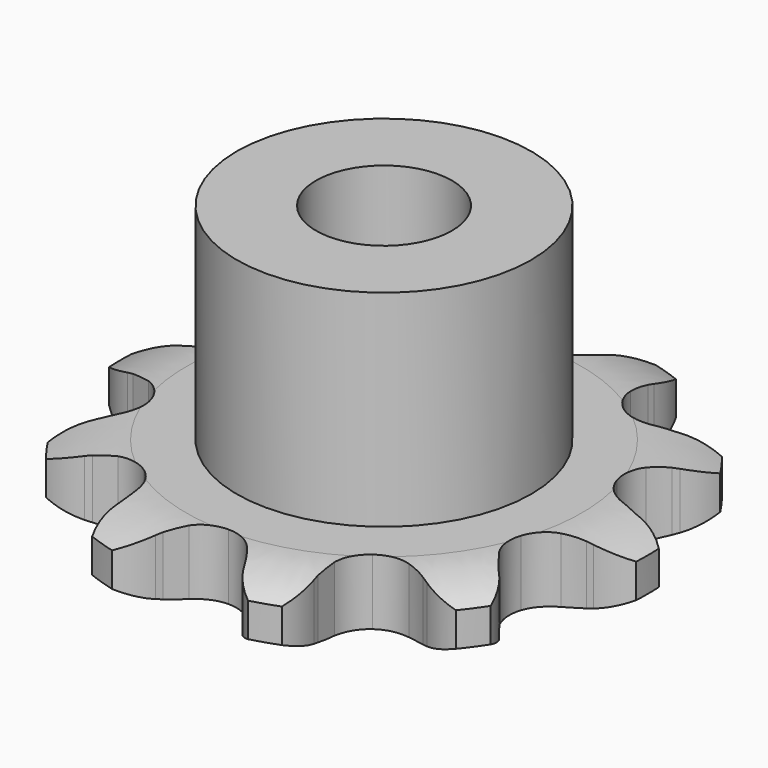
from build123d import *

# Parameters (mm, degrees)
PAD_DEPTH         = 2.9
SKETCH001_R       = 6.5
PAD001_DEPTH      = 12
SKETCH002_R       = 3
POCKET_DEPTH      = 0.0010001
POCKET_DEPTH_BACK = 12.001


with BuildPart() as part:
    # Sprocket → Pad (new body)
    with BuildSketch(Plane.XY):
        with BuildLine():
            ThreePointArc((-3.7546702431, 11.5556867947), (-2.705783791, 11.0597005391), (-1.9502559482, 10.1791650008))
            Line((-1.9502559482, 10.1791650008), (-1.8148081837, 9.9307362269))
            ThreePointArc((-1.8148081837, 9.9307362269), (-1.5683570812, 9.5316978859), (-1.2802515964, 9.1616100947))
            ThreePointArc((-1.2802515964, 9.1616100947), (-0.7034648822, 8.7309030267), (0, 8.5781658286))
            ThreePointArc((0, 8.5781658286), (0.7034648822, 8.7309030267), (1.2802515964, 9.1616100947))
            ThreePointArc((1.2802515964, 9.1616100947), (1.5683570812, 9.5316978859), (1.8148081837, 9.9307362269))
            Line((1.8148081837, 9.9307362269), (1.9502559482, 10.1791650008))
            ThreePointArc((1.9502559482, 10.1791650008), (2.705783791, 11.0597005391), (3.7546702431, 11.5556867947))
            ThreePointArc((3.7546702431, 11.5556867947), (4.3117038016, 10.537905497), (4.4053728626, 9.3814491587))
            Line((4.4053728626, 9.3814491587), (4.3689296364, 9.1008518604))
            ThreePointArc((4.3689296364, 9.1008518604), (4.3337639147, 8.6331627376), (4.3493140024, 8.1644112701))
            ThreePointArc((4.3493140024, 8.1644112701), (4.5627809937, 7.4769352081), (5.0421193657, 6.9398819359))
            ThreePointArc((5.0421193657, 6.9398819359), (5.7010110829, 6.6499626416), (6.4208045995, 6.6593852549))
            Line((6.4208045995, 6.6593852549), (7.3053509607, 6.9674168881))
            ThreePointArc((7.3053509607, 6.9674168881), (7.4321619135, 7.0301867029), (7.5609532736, 7.0887857896))
            ThreePointArc((7.5609532736, 7.0887857896), (8.6897539416, 7.3570658806), (9.829854313, 7.1418072025))
            ThreePointArc((9.829854313, 7.1418072025), (9.6822670914, 5.9909887253), (9.078298973, 5.0003386018))
            Line((9.078298973, 5.0003386018), (8.8838848299, 4.7947514097))
            ThreePointArc((8.8838848299, 4.7947514097), (8.5805343944, 4.437052854), (8.31758948, 4.0486848384))
            ThreePointArc((8.31758948, 4.0486848384), (8.0861996132, 3.3670322717), (8.1583205091, 2.6507990216))
            ThreePointArc((8.1583205091, 2.6507990216), (8.5209648202, 2.0289625513), (9.1088284807, 1.6135015918))
            Line((9.1088284807, 1.6135015918), (10.0054979705, 1.3427811118))
            ThreePointArc((10.0054979705, 1.3427811118), (10.1449853578, 1.3190253509), (10.2836234358, 1.2907313458))
            ThreePointArc((10.2836234358, 1.2907313458), (11.3545334404, 0.8442821132), (12.1503681398, 0))
            ThreePointArc((12.1503681398, 0), (11.3545334404, -0.8442821132), (10.2836234358, -1.2907313458))
            Line((10.2836234358, -1.2907313458), (10.0054979705, -1.3427811118))
            ThreePointArc((10.0054979705, -1.3427811118), (9.5498323771, -1.45386041), (9.1088284807, -1.6135015918))
            ThreePointArc((9.1088284807, -1.6135015918), (8.5209648202, -2.0289625513), (8.1583205091, -2.6507990216))
            ThreePointArc((8.1583205091, -2.6507990216), (8.0861996132, -3.3670322717), (8.31758948, -4.0486848384))
            Line((8.31758948, -4.0486848384), (8.8838848299, -4.7947514097))
            ThreePointArc((8.8838848299, -4.7947514097), (8.9827692108, -4.8959588532), (9.078298973, -5.0003386018))
            ThreePointArc((9.078298973, -5.0003386018), (9.6822670914, -5.9909887253), (9.829854313, -7.1418072025))
            ThreePointArc((9.829854313, -7.1418072025), (8.6897539416, -7.3570658806), (7.5609532736, -7.0887857896))
            Line((7.5609532736, -7.0887857896), (7.3053509607, -6.9674168881))
            ThreePointArc((7.3053509607, -6.9674168881), (6.8714189786, -6.7894484122), (6.4208045995, -6.6593852549))
            ThreePointArc((6.4208045995, -6.6593852549), (5.7010110829, -6.6499626416), (5.0421193657, -6.9398819359))
            ThreePointArc((5.0421193657, -6.9398819359), (4.5627809937, -7.4769352081), (4.3493140024, -8.1644112701))
            Line((4.3493140024, -8.1644112701), (4.3689296364, -9.1008518604))
            ThreePointArc((4.3689296364, -9.1008518604), (4.3894405383, -9.2408531828), (4.4053728626, -9.3814491587))
            ThreePointArc((4.4053728626, -9.3814491587), (4.3117038016, -10.537905497), (3.7546702431, -11.5556867947))
            ThreePointArc((3.7546702431, -11.5556867947), (2.705783791, -11.0597005391), (1.9502559482, -10.1791650008))
            Line((1.9502559482, -10.1791650008), (1.8148081837, -9.9307362269))
            ThreePointArc((1.8148081837, -9.9307362269), (1.5683570812, -9.5316978859), (1.2802515964, -9.1616100947))
            ThreePointArc((1.2802515964, -9.1616100947), (0.7034648822, -8.7309030267), (0, -8.5781658286))
            ThreePointArc((0, -8.5781658286), (-0.7034648822, -8.7309030267), (-1.2802515964, -9.1616100947))
            Line((-1.2802515964, -9.1616100947), (-1.8148081837, -9.9307362269))
            ThreePointArc((-1.8148081837, -9.9307362269), (-1.8805052282, -10.0560556817), (-1.9502559482, -10.1791650008))
            ThreePointArc((-1.9502559482, -10.1791650008), (-2.705783791, -11.0597005391), (-3.7546702431, -11.5556867947))
            ThreePointArc((-3.7546702431, -11.5556867947), (-4.3117038016, -10.537905497), (-4.4053728626, -9.3814491587))
            Line((-4.4053728626, -9.3814491587), (-4.3689296364, -9.1008518604))
            ThreePointArc((-4.3689296364, -9.1008518604), (-4.3337639147, -8.6331627376), (-4.3493140024, -8.1644112701))
            ThreePointArc((-4.3493140024, -8.1644112701), (-4.5627809937, -7.4769352081), (-5.0421193657, -6.9398819359))
            ThreePointArc((-5.0421193657, -6.9398819359), (-5.7010110829, -6.6499626416), (-6.4208045995, -6.6593852549))
            Line((-6.4208045995, -6.6593852549), (-7.3053509607, -6.9674168881))
            ThreePointArc((-7.3053509607, -6.9674168881), (-7.4321619135, -7.0301867029), (-7.5609532736, -7.0887857896))
            ThreePointArc((-7.5609532736, -7.0887857896), (-8.6897539416, -7.3570658806), (-9.829854313, -7.1418072025))
            ThreePointArc((-9.829854313, -7.1418072025), (-9.6822670914, -5.9909887253), (-9.078298973, -5.0003386018))
            Line((-9.078298973, -5.0003386018), (-8.8838848299, -4.7947514097))
            ThreePointArc((-8.8838848299, -4.7947514097), (-8.5805343944, -4.437052854), (-8.31758948, -4.0486848384))
            ThreePointArc((-8.31758948, -4.0486848384), (-8.0861996132, -3.3670322717), (-8.1583205091, -2.6507990216))
            ThreePointArc((-8.1583205091, -2.6507990216), (-8.5209648202, -2.0289625513), (-9.1088284807, -1.6135015918))
            Line((-9.1088284807, -1.6135015918), (-10.0054979705, -1.3427811118))
            ThreePointArc((-10.0054979705, -1.3427811118), (-10.1449853578, -1.3190253509), (-10.2836234358, -1.2907313458))
            ThreePointArc((-10.2836234358, -1.2907313458), (-11.3545334404, -0.8442821132), (-12.1503681398, 0))
            ThreePointArc((-12.1503681398, 0), (-11.3545334404, 0.8442821132), (-10.2836234358, 1.2907313458))
            Line((-10.2836234358, 1.2907313458), (-10.0054979705, 1.3427811118))
            ThreePointArc((-10.0054979705, 1.3427811118), (-9.5498323771, 1.45386041), (-9.1088284807, 1.6135015918))
            ThreePointArc((-9.1088284807, 1.6135015918), (-8.5209648202, 2.0289625513), (-8.1583205091, 2.6507990216))
            ThreePointArc((-8.1583205091, 2.6507990216), (-8.0861996132, 3.3670322717), (-8.31758948, 4.0486848384))
            Line((-8.31758948, 4.0486848384), (-8.8838848299, 4.7947514097))
            ThreePointArc((-8.8838848299, 4.7947514097), (-8.9827692108, 4.8959588532), (-9.078298973, 5.0003386018))
            ThreePointArc((-9.078298973, 5.0003386018), (-9.6822670914, 5.9909887253), (-9.829854313, 7.1418072025))
            ThreePointArc((-9.829854313, 7.1418072025), (-8.6897539416, 7.3570658806), (-7.5609532736, 7.0887857896))
            Line((-7.5609532736, 7.0887857896), (-7.3053509607, 6.9674168881))
            ThreePointArc((-7.3053509607, 6.9674168881), (-6.8714189786, 6.7894484122), (-6.4208045995, 6.6593852549))
            ThreePointArc((-6.4208045995, 6.6593852549), (-5.7010110829, 6.6499626416), (-5.0421193657, 6.9398819359))
            ThreePointArc((-5.0421193657, 6.9398819359), (-4.5627809937, 7.4769352081), (-4.3493140024, 8.1644112701))
            Line((-4.3493140024, 8.1644112701), (-4.3689296364, 9.1008518604))
            ThreePointArc((-4.3689296364, 9.1008518604), (-4.3894405383, 9.2408531828), (-4.4053728626, 9.3814491587))
            ThreePointArc((-4.4053728626, 9.3814491587), (-4.3117038016, 10.537905497), (-3.7546702431, 11.5556867947))
        make_face()
    extrude(amount=PAD_DEPTH)

    # Sketch → Groove (revolve, cut)
    with BuildSketch(Plane.XZ):
        with BuildLine():
            Line((8.7396735578, 0), (11.65, 0))
            Line((14.5603264422, 0), (11.65, 0))
            Line((14.5603264422, 2.9), (14.5603264422, 0))
            Line((11.65, 2.9), (14.5603264422, 2.9))
            Line((8.7396735578, 2.9), (11.65, 2.9))
            ThreePointArc((11.65, 2.2), (10.2363365125, 2.7225396744), (8.7396735578, 2.9))
            Line((11.65, 0.7), (11.65, 2.2))
            ThreePointArc((8.7396735578, 0), (10.2363365125, 0.1774603256), (11.65, 0.7))
        make_face()
    revolve(axis=Axis((0, 0, 0), (0, 0, 1)), mode=Mode.SUBTRACT)

    # Sketch001 → Pad001 (join)
    with BuildSketch(Plane.XY):
        Circle(SKETCH001_R)
    extrude(amount=PAD001_DEPTH)

    # Sketch002 → Pocket (cut, two sides)
    with BuildSketch(Plane.XY) as pocket_sk:
        Circle(SKETCH002_R)
    extrude(amount=-POCKET_DEPTH, mode=Mode.SUBTRACT)
    extrude(pocket_sk.sketch, amount=POCKET_DEPTH_BACK, mode=Mode.SUBTRACT)


solid = part.part
